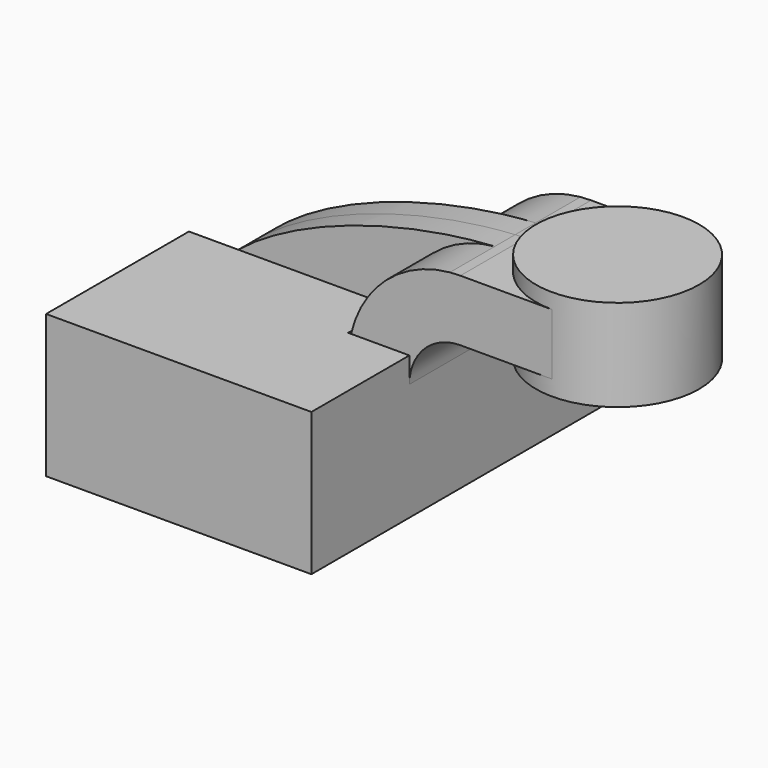
from build123d import *

# Parameters (mm, degrees)
F1_DEPTH = 63.5
F0_W     = 25.4
F0_H     = 19.05
F2_DEPTH = 25.4
F3_DEPTH = 7.9375
F5_DEPTH = 25.4


with BuildPart() as f1:
    # F0 (on Front) → F1 (new body, symmetric)
    with BuildSketch(Plane.XZ):
        Polygon((22.225, 9.525), (-41.275, 9.525), (-41.275, -9.525), (41.275, -9.525), (41.275, 9.525), align=None)
    extrude(amount=F1_DEPTH, both=True)

    # F0 (on Front) → F2 (join, symmetric)
    with BuildSketch(Plane.XZ):
        with BuildLine():
            Line((22.225, 27.0002), (22.225, 9.525))
            Line((22.225, 9.525), (41.275, 9.525))
            Line((41.275, 9.525), (41.275, 27.0002))
            ThreePointArc((41.275, 27.0002), (45.9246798487, 38.2255201513), (57.15, 42.8752))
            Line((57.15, 42.8752), (60.325, 42.8752))
            Line((60.325, 42.8752), (60.325, 61.9252))
            Line((60.325, 61.9252), (57.15, 61.9252))
            add(Edge.make_bspline(
                [(53.8854342407, 61.7722898912), (54.9842067368, 61.8365871986), (56.0728453275, 61.8876096574), (57.15, 61.9252)],
                knots=[108.5245810491, 108.5245810491, 108.5245810491, 108.5245810491, 111.5045361635, 111.5045361635, 111.5045361635, 111.5045361635], degree=3))
            ThreePointArc((53.8854342407, 61.7722898912), (31.3258777096, 50.5133948686), (22.225, 27.0002))
        make_face()
        with Locations((73.025, 52.4002)):
            Rectangle(F0_W, F0_H)
    extrude(amount=F2_DEPTH, both=True)

    # F0 (on Front) → F3 (join, symmetric)
    with BuildSketch(Plane.XZ):
        with BuildLine():
            add(Edge.make_bspline(
                [(-41.275, 9.525), (-39.5856284224, 39.4828766469), (13.870125209, 59.4306981306), (53.8854342407, 61.7722898912)],
                knots=[0, 0, 0, 0, 108.5245810491, 108.5245810491, 108.5245810491, 108.5245810491], degree=3))
            Line((-41.275, 9.525), (22.225, 9.525))
            Line((22.225, 9.525), (22.225, 27.0002))
            ThreePointArc((22.225, 27.0002), (31.3258777096, 50.5133948686), (53.8854342407, 61.7722898912))
        make_face()
    extrude(amount=F3_DEPTH, both=True)

    # F0 (on Front) → F4 (revolve)
    with BuildSketch(Plane.XZ):
        Polygon((85.725, 66.675), (85.725, 61.9252), (85.725, 42.8752), (85.725, 38.1), (111.125, 38.1), (111.125, 66.675), align=None)
    revolve(axis=Axis((85.725, 0, 52.3875), (0, 0, 1)))

    # F5 (add): a face of the model
    f5_faces = [f1.faces().sort_by_distance(p)[0] for p in [
        (-2.4828199052, -37.2084419431, 9.525),
    ]]
    extrude(f5_faces, amount=F5_DEPTH)


solid = f1.part
